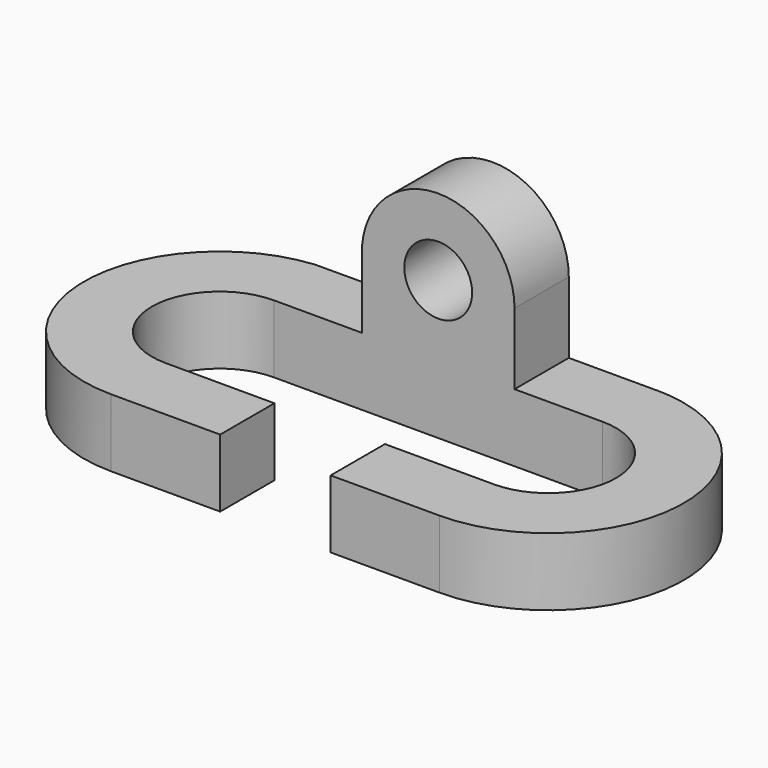
from build123d import *

# Parameters (mm, degrees)
F1_DEPTH = 12.7
F2_R     = 6.35
F3_DEPTH = 12.7


with BuildPart() as f1:
    # F0 (on Top) → F1 (new body)
    with BuildSketch(Plane.XY):
        with BuildLine():
            ThreePointArc((30.752141, 12.7), (43.452141, 0), (30.752141, -12.7))
            Line((30.752141, -12.7), (10.341428, -12.7))
            Line((10.341428, -12.7), (10.341428, -25.4))
            Line((10.341428, -25.4), (30.752141, -25.4))
            ThreePointArc((30.752141, -25.4), (56.123977, -1.195799), (33.141087, 25.287407))
            Line((33.141087, 25.287407), (30.752141, 25.295523))
            Line((30.752141, 25.295523), (30.752141, 12.7))
        make_face()
        with BuildLine():
            Line((0, 12.7), (30.752141, 12.7))
            Line((30.752141, 12.7), (30.752141, 25.295523))
            Line((30.752141, 25.295523), (0, 25.4))
            Line((0, 25.4), (-33.141087, 25.287407))
            ThreePointArc((-33.141087, 25.287407), (-56.123977, -1.195799), (-30.752141, -25.4))
            Line((-30.752141, -25.4), (-10.341428, -25.4))
            Line((-10.341428, -25.4), (-10.341428, -12.7))
            Line((-10.341428, -12.7), (-30.752141, -12.7))
            ThreePointArc((-30.752141, -12.7), (-43.452141, 0), (-30.752141, 12.7))
            Line((-30.752141, 12.7), (0, 12.7))
        make_face()
        Polygon((0, 25.4), (30.752141, 25.295523), (30.752141, 25.4), align=None)
        with BuildLine():
            Line((30.752141, 25.4), (30.752141, 25.295523))
            Line((30.752141, 25.295523), (33.141087, 25.287407))
            ThreePointArc((33.141087, 25.287407), (31.94794, 25.371836), (30.752141, 25.4))
        make_face()
    extrude(amount=-F1_DEPTH)

    # F2 (on face) → F3 (join)
    with BuildSketch(Plane.XZ.offset(-12.7)):
        with BuildLine():
            Line((14.2875, 0), (14.2875, 13.335001))
            ThreePointArc((14.2875, 13.335001), (-0.263015, 27.62008), (-14.277816, 12.809059))
            Line((-14.277816, 12.809059), (-14.277816, 0))
            Line((-14.277816, 0), (14.2875, 0))
        make_face()
        with Locations((0, 13.335001)):
            Circle(F2_R, mode=Mode.SUBTRACT)
    extrude(amount=-F3_DEPTH)


solid = f1.part
